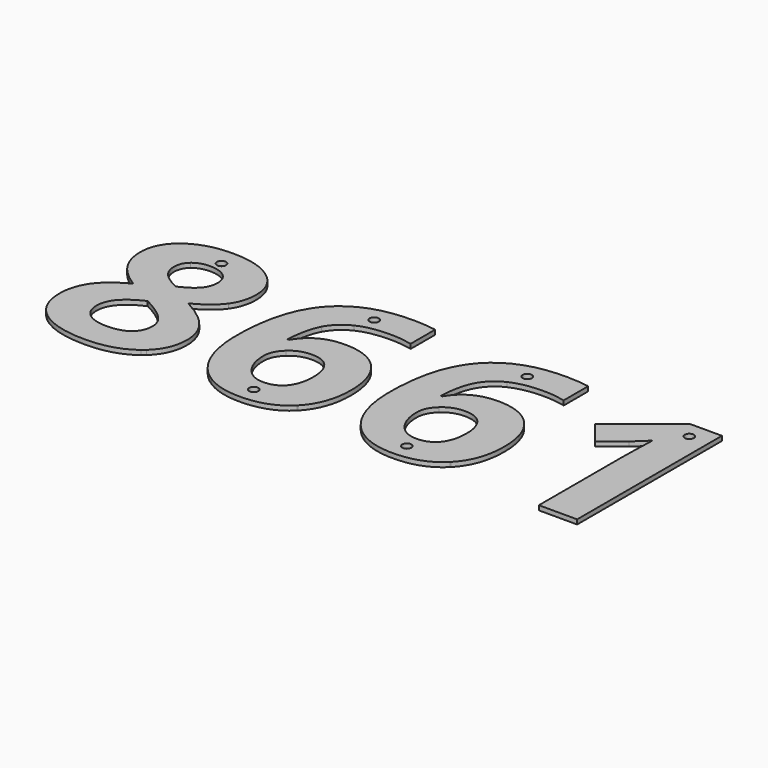
from build123d import *

# Parameters (mm, degrees)
F1_DEPTH = 2.54
F0_W     = 21.2989583333
F0_H     = 7.62


with BuildPart() as f1:
    # F0 (on Top) → F1 (new body)
    with BuildSketch(Plane.XY):
        with BuildLine():
            Line((-113.2377999403, 87.7247160562), (-140.2658723302, 87.7247160562))
            add(Edge.make_bspline(
                [(-145.0274874403, 74.1383618895), (-145.0274874403, 82.0339818801), (-140.2658723302, 87.7247160562)],
                knots=[0, 0, 0, 0.7293290432, 0.7293290432, 0.7293290432], degree=2))
            add(Edge.make_bspline(
                [(-141.2461506348, 60.5674417506), (-145.0274874403, 66.7741257784), (-145.0274874403, 74.1383618895)],
                knots=[0, 0, 0, 1, 1, 1], degree=2))
            add(Edge.make_bspline(
                [(-128.8438068848, 48.9367993895), (-137.4648138292, 54.3607577228), (-141.2461506348, 60.5674417506)],
                knots=[0, 0, 0, 1, 1, 1], degree=2))
            add(Edge.make_bspline(
                [(-143.5502304959, 37.140792445), (-138.9641193848, 43.8215216117), (-128.8438068848, 48.9367993895)],
                knots=[0, 0, 0, 1, 1, 1], degree=2))
            add(Edge.make_bspline(
                [(-148.136341607, 21.8390563339), (-148.136341607, 30.4600632784), (-143.5502304959, 37.140792445)],
                knots=[0, 0, 0, 1, 1, 1], degree=2))
            add(Edge.make_bspline(
                [(-141.044147734, 3.9047160562), (-148.136341607, 10.6762887928), (-148.136341607, 21.8390563339)],
                knots=[0.1330824475, 0.1330824475, 0.1330824475, 1, 1, 1], degree=2))
            Line((-141.044147734, 3.9047160562), (-85.4263555801, 3.9047160562))
            add(Edge.make_bspline(
                [(-77.4484943848, 22.3902716117), (-77.4484943848, 11.1598201309), (-85.4263555801, 3.9047160562)],
                knots=[0, 0, 0, 0.9063160329, 0.9063160329, 0.9063160329], degree=2))
            add(Edge.make_bspline(
                [(-82.3763589681, 36.843136195), (-77.4484943848, 30.2616257784), (-77.4484943848, 22.3902716117)],
                knots=[0, 0, 0, 1, 1, 1], degree=2))
            add(Edge.make_bspline(
                [(-98.5931124403, 49.4880146673), (-87.3042235514, 43.4246466117), (-82.3763589681, 36.843136195)],
                knots=[0, 0, 0, 1, 1, 1], degree=2))
            add(Edge.make_bspline(
                [(-84.8127304959, 60.258761195), (-89.0901610514, 54.2284660562), (-98.5931124403, 49.4880146673)],
                knots=[0, 0, 0, 1, 1, 1], degree=2))
            add(Edge.make_bspline(
                [(-80.5352999403, 74.0060702228), (-80.5352999403, 66.2890563339), (-84.8127304959, 60.258761195)],
                knots=[0, 0, 0, 1, 1, 1], degree=2))
            add(Edge.make_bspline(
                [(-85.1446380863, 87.7247160562), (-80.5352999403, 82.0564736691), (-80.5352999403, 74.0060702228)],
                knots=[0.2784176675, 0.2784176675, 0.2784176675, 1, 1, 1], degree=2))
            Line((-85.1446380863, 87.7247160562), (-108.1577999403, 87.7247160562))
            ThreePointArc((-108.1577999403, 87.7247160562), (-110.6977999403, 85.1847160562), (-113.2377999403, 87.7247160562))
        make_face()
        with BuildLine():
            add(Edge.make_bspline(
                [(-128.4248832737, 23.0958271673), (-128.4248832737, 17.1647507784), (-124.2907686903, 13.8574591117)],
                knots=[0, 0, 0, 1, 1, 1], degree=2))
            add(Edge.make_bspline(
                [(-113.7625568848, 40.1835007784), (-128.4248832737, 33.4145771673), (-128.4248832737, 23.0958271673)],
                knots=[0, 0, 0, 1, 1, 1], degree=2))
            add(Edge.make_bspline(
                [(-101.1176784125, 31.5955667506), (-105.0092582737, 35.6194382784), (-113.7625568848, 40.1835007784)],
                knots=[0, 0, 0, 1, 1, 1], degree=2))
            add(Edge.make_bspline(
                [(-97.2260985514, 22.9414868895), (-97.2260985514, 27.5716952228), (-101.1176784125, 31.5955667506)],
                knots=[0, 0, 0, 1, 1, 1], degree=2))
            add(Edge.make_bspline(
                [(-101.1507513292, 13.9566778617), (-97.2260985514, 17.3631882784), (-97.2260985514, 22.9414868895)],
                knots=[0, 0, 0, 1, 1, 1], degree=2))
            add(Edge.make_bspline(
                [(-112.9908554959, 10.550167445), (-105.075404107, 10.550167445), (-101.1507513292, 13.9566778617)],
                knots=[0, 0, 0, 1, 1, 1], degree=2))
            add(Edge.make_bspline(
                [(-124.2907686903, 13.8574591117), (-120.156654107, 10.550167445), (-112.9908554959, 10.550167445)],
                knots=[0, 0, 0, 1, 1, 1], degree=2))
        make_face(mode=Mode.SUBTRACT)
        with BuildLine():
            add(Edge.make_bspline(
                [(-112.8585638292, 82.7593688339), (-118.3045707737, 82.7593688339), (-121.644935357, 79.9702195284)],
                knots=[0, 0, 0, 1, 1, 1], degree=2))
            add(Edge.make_bspline(
                [(-104.0391193848, 80.003292445), (-107.4787027181, 82.7593688339), (-112.8585638292, 82.7593688339)],
                knots=[0, 0, 0, 1, 1, 1], degree=2))
            add(Edge.make_bspline(
                [(-100.5995360514, 72.4847160562), (-100.5995360514, 77.2472160562), (-104.0391193848, 80.003292445)],
                knots=[0, 0, 0, 1, 1, 1], degree=2))
            add(Edge.make_bspline(
                [(-103.2784423014, 64.8338480006), (-100.5995360514, 68.1411396673), (-100.5995360514, 72.4847160562)],
                knots=[0, 0, 0, 1, 1, 1], degree=2))
            add(Edge.make_bspline(
                [(-112.7262721625, 58.373604945), (-105.9573485514, 61.5265563339), (-103.2784423014, 64.8338480006)],
                knots=[0, 0, 0, 1, 1, 1], degree=2))
            add(Edge.make_bspline(
                [(-122.3284423014, 65.0874070284), (-119.6715846625, 61.8131882784), (-112.7262721625, 58.373604945)],
                knots=[0, 0, 0, 1, 1, 1], degree=2))
            add(Edge.make_bspline(
                [(-124.9852999403, 72.4847160562), (-124.9852999403, 68.3616257784), (-122.3284423014, 65.0874070284)],
                knots=[0, 0, 0, 1, 1, 1], degree=2))
            add(Edge.make_bspline(
                [(-121.644935357, 79.9702195284), (-124.9852999403, 77.1810702228), (-124.9852999403, 72.4847160562)],
                knots=[0, 0, 0, 1, 1, 1], degree=2))
        make_face(mode=Mode.SUBTRACT)
        with BuildLine():
            add(Edge.make_bspline(
                [(-140.2658723302, 87.7247160562), (-138.4987263076, 89.836679756), (-136.0757513292, 91.6449591117)],
                knots=[0.7293290432, 0.7293290432, 0.7293290432, 1, 1, 1], degree=2))
            Line((-140.2658723302, 87.7247160562), (-113.2377999403, 87.7247160562))
            ThreePointArc((-113.2377999403, 87.7247160562), (-110.6977999403, 90.2647160562), (-108.1577999403, 87.7247160562))
            Line((-108.1577999403, 87.7247160562), (-85.1446380863, 87.7247160562))
            add(Edge.make_bspline(
                [(-89.3878173014, 91.7441778617), (-86.9231200662, 89.9117690828), (-85.1446380863, 87.7247160562)],
                knots=[0, 0, 0, 0.2784176675, 0.2784176675, 0.2784176675], degree=2))
            add(Edge.make_bspline(
                [(-112.7262721625, 98.3256882784), (-98.2403346625, 98.3256882784), (-89.3878173014, 91.7441778617)],
                knots=[0, 0, 0, 1, 1, 1], degree=2))
            add(Edge.make_bspline(
                [(-136.0757513292, 91.6449591117), (-127.1240152181, 98.3256882784), (-112.7262721625, 98.3256882784)],
                knots=[0, 0, 0, 1, 1, 1], degree=2))
        make_face()
        with BuildLine():
            Line((-85.4263555801, 3.9047160562), (-141.044147734, 3.9047160562))
            add(Edge.make_bspline(
                [(-138.6995360514, 1.9291605006), (-139.9554092309, 2.865196819), (-141.044147734, 3.9047160562)],
                knots=[0, 0, 0, 0.1330824475, 0.1330824475, 0.1330824475], degree=2))
            add(Edge.make_bspline(
                [(-112.7262721625, -5.1043464438), (-129.2627304959, -5.1043464438), (-138.6995360514, 1.9291605006)],
                knots=[0, 0, 0, 1, 1, 1], degree=2))
            add(Edge.make_bspline(
                [(-87.1609075792, 2.4473028617), (-96.8733207737, -5.1043464438), (-112.7262721625, -5.1043464438)],
                knots=[0, 0, 0, 1, 1, 1], degree=2))
            add(Edge.make_bspline(
                [(-85.4263555801, 3.9047160562), (-86.2510101807, 3.1547713271), (-87.1609075792, 2.4473028617)],
                knots=[0.9063160329, 0.9063160329, 0.9063160329, 1, 1, 1], degree=2))
        make_face()
    extrude(amount=F1_DEPTH)


with BuildPart() as f1b:
    # F0 (on Top) → F1, piece 2 (new body)
    with BuildSketch(Plane.XY):
        with BuildLine():
            Line((-28.2293798014, 87.7247160562), (-46.5161582434, 87.7247160562))
            add(Edge.make_bspline(
                [(-50.6925048014, 83.5861917506), (-48.7523897485, 85.8273883026), (-46.5161582434, 87.7247160562)],
                knots=[0, 0, 0, 0.1534308975, 0.1534308975, 0.1534308975], degree=2))
            add(Edge.make_bspline(
                [(-63.3373832737, 39.0810702228), (-63.3373832737, 68.9789868895), (-50.6925048014, 83.5861917506)],
                knots=[0, 0, 0, 1, 1, 1], degree=2))
            add(Edge.make_bspline(
                [(-58.8284423014, 15.1583271673), (-63.3373832737, 25.0802021673), (-63.3373832737, 39.0810702228)],
                knots=[0, 0, 0, 1, 1, 1], degree=2))
            add(Edge.make_bspline(
                [(-50.9831645376, 3.9047160562), (-55.7768536804, 8.4433399815), (-58.8284423014, 15.1583271673)],
                knots=[0.3232138899, 0.3232138899, 0.3232138899, 1, 1, 1], degree=2))
            Line((-50.9831645376, 3.9047160562), (-28.2293798014, 3.9047160562))
            ThreePointArc((-28.2293798014, 3.9047160562), (-25.6893798014, 6.4447160562), (-23.1493798014, 3.9047160562))
            Line((-23.1493798014, 3.9047160562), (-1.7252301548, 3.9047160562))
            add(Edge.make_bspline(
                [(-1.3256645237, 4.3104105006), (-1.5237812714, 4.105329649), (-1.7252301548, 3.9047160562)],
                knots=[0, 0, 0, 0.0217829151, 0.0217829151, 0.0217829151], degree=2))
            add(Edge.make_bspline(
                [(7.7693875597, 29.8427021673), (7.7693875597, 13.725167445), (-1.3256645237, 4.3104105006)],
                knots=[0, 0, 0, 1, 1, 1], degree=2))
            add(Edge.make_bspline(
                [(0.1185195041, 53.2693514728), (7.7693875597, 44.7916605006), (7.7693875597, 29.8427021673)],
                knots=[0, 0, 0, 1, 1, 1], degree=2))
            add(Edge.make_bspline(
                [(-21.0260985514, 61.747042445), (-7.5323485514, 61.747042445), (0.1185195041, 53.2693514728)],
                knots=[0, 0, 0, 1, 1, 1], degree=2))
            add(Edge.make_bspline(
                [(-42.8762721625, 50.039229945), (-36.0412027181, 61.747042445), (-21.0260985514, 61.747042445)],
                knots=[0, 0, 0, 1, 1, 1], degree=2))
            Line((-42.8762721625, 50.039229945), (-43.758216607, 50.039229945))
            add(Edge.make_bspline(
                [(-39.7012721625, 68.4277716117), (-43.1408554959, 61.945479945), (-43.758216607, 50.039229945)],
                knots=[0, 0, 0, 1, 1, 1], degree=2))
            add(Edge.make_bspline(
                [(-29.3384249403, 78.217354945), (-36.2616888292, 74.9100632784), (-39.7012721625, 68.4277716117)],
                knots=[0, 0, 0, 1, 1, 1], degree=2))
            add(Edge.make_bspline(
                [(-11.4570013292, 81.5246466117), (-22.4151610514, 81.5246466117), (-29.3384249403, 78.217354945)],
                knots=[0, 0, 0, 1, 1, 1], degree=2))
            add(Edge.make_bspline(
                [(0.6697347819, 80.1355841117), (-5.459779107, 81.5246466117), (-11.4570013292, 81.5246466117)],
                knots=[0, 0, 0, 1, 1, 1], degree=2))
            Line((0.6697347819, 80.1355841117), (0.6697347819, 87.7247160562))
            Line((0.6697347819, 87.7247160562), (-23.1493798014, 87.7247160562))
            ThreePointArc((-23.1493798014, 87.7247160562), (-25.6893798014, 85.1847160562), (-28.2293798014, 87.7247160562))
        make_face()
        with BuildLine():
            add(Edge.make_bspline(
                [(-26.9571749403, 11.9171813339), (-20.144154107, 11.9171813339), (-16.4840846625, 16.503292445)],
                knots=[0, 0, 0, 1, 1, 1], degree=2))
            add(Edge.make_bspline(
                [(-37.8822617459, 17.5726500839), (-33.5717582737, 11.9171813339), (-26.9571749403, 11.9171813339)],
                knots=[0, 0, 0, 1, 1, 1], degree=2))
            add(Edge.make_bspline(
                [(-42.1927652181, 31.4302021673), (-42.1927652181, 23.2281188339), (-37.8822617459, 17.5726500839)],
                knots=[0, 0, 0, 1, 1, 1], degree=2))
            add(Edge.make_bspline(
                [(-37.606654107, 41.208761195), (-42.1927652181, 37.0085007784), (-42.1927652181, 31.4302021673)],
                knots=[0, 0, 0, 1, 1, 1], degree=2))
            add(Edge.make_bspline(
                [(-26.5382513292, 45.4090216117), (-33.0205429959, 45.4090216117), (-37.606654107, 41.208761195)],
                knots=[0, 0, 0, 1, 1, 1], degree=2))
            add(Edge.make_bspline(
                [(-16.2415499403, 41.1756882784), (-19.6590846625, 45.4090216117), (-26.5382513292, 45.4090216117)],
                knots=[0, 0, 0, 1, 1, 1], degree=2))
            add(Edge.make_bspline(
                [(-12.8240152181, 29.5560702228), (-12.8240152181, 36.942354945), (-16.2415499403, 41.1756882784)],
                knots=[0, 0, 0, 1, 1, 1], degree=2))
            add(Edge.make_bspline(
                [(-16.4840846625, 16.503292445), (-12.8240152181, 21.0894035562), (-12.8240152181, 29.5560702228)],
                knots=[0, 0, 0, 1, 1, 1], degree=2))
        make_face(mode=Mode.SUBTRACT)
        with BuildLine():
            add(Edge.make_bspline(
                [(-46.5161582434, 87.7247160562), (-34.1775450379, 98.1933966117), (-12.8240152181, 98.1933966117)],
                knots=[0.1534308975, 0.1534308975, 0.1534308975, 1, 1, 1], degree=2))
            Line((-46.5161582434, 87.7247160562), (-28.2293798014, 87.7247160562))
            ThreePointArc((-28.2293798014, 87.7247160562), (-25.6893798014, 90.2647160562), (-23.1493798014, 87.7247160562))
            Line((-23.1493798014, 87.7247160562), (0.6697347819, 87.7247160562))
            Line((0.6697347819, 87.7247160562), (0.6697347819, 97.1571118895))
            add(Edge.make_bspline(
                [(-12.8240152181, 98.1933966117), (-4.2250568848, 98.1933966117), (0.6697347819, 97.1571118895)],
                knots=[0, 0, 0, 1, 1, 1], degree=2))
        make_face()
        with BuildLine():
            Line((-28.2293798014, 3.9047160562), (-50.9831645376, 3.9047160562))
            add(Edge.make_bspline(
                [(-46.0071749403, 0.0660528617), (-48.6938342869, 1.7371977338), (-50.9831645376, 3.9047160562)],
                knots=[0, 0, 0, 0.3232138899, 0.3232138899, 0.3232138899], degree=2))
            add(Edge.make_bspline(
                [(-26.5382513292, -5.1043464438), (-37.6948485514, -5.1043464438), (-46.0071749403, 0.0660528617)],
                knots=[0, 0, 0, 1, 1, 1], degree=2))
            add(Edge.make_bspline(
                [(-1.7252301548, 3.9047160562), (-10.7718034982, -5.1043464438), (-26.5382513292, -5.1043464438)],
                knots=[0.0217829151, 0.0217829151, 0.0217829151, 1, 1, 1], degree=2))
            Line((-1.7252301548, 3.9047160562), (-23.1493798014, 3.9047160562))
            ThreePointArc((-23.1493798014, 3.9047160562), (-25.6893798014, 1.3647160562), (-28.2293798014, 3.9047160562))
        make_face()
    extrude(amount=F1_DEPTH)


with BuildPart() as f1c:
    # F0 (on Top) → F1, piece 3 (new body)
    with BuildSketch(Plane.XY):
        with BuildLine():
            Line((56.988502143, 87.7247160562), (38.701723701, 87.7247160562))
            add(Edge.make_bspline(
                [(34.525377143, 83.5861917506), (36.465492196, 85.8273883026), (38.701723701, 87.7247160562)],
                knots=[0, 0, 0, 0.1534308975, 0.1534308975, 0.1534308975], degree=2))
            add(Edge.make_bspline(
                [(21.8804986708, 39.0810702228), (21.8804986708, 68.9789868895), (34.525377143, 83.5861917506)],
                knots=[0, 0, 0, 1, 1, 1], degree=2))
            add(Edge.make_bspline(
                [(26.389439643, 15.1583271673), (21.8804986708, 25.0802021673), (21.8804986708, 39.0810702228)],
                knots=[0, 0, 0, 1, 1, 1], degree=2))
            add(Edge.make_bspline(
                [(34.2347174069, 3.9047160562), (29.4410282641, 8.4433399815), (26.389439643, 15.1583271673)],
                knots=[0.3232138899, 0.3232138899, 0.3232138899, 1, 1, 1], degree=2))
            Line((34.2347174069, 3.9047160562), (56.988502143, 3.9047160562))
            ThreePointArc((56.988502143, 3.9047160562), (59.528502143, 6.4447160562), (62.068502143, 3.9047160562))
            Line((62.068502143, 3.9047160562), (83.4926517896, 3.9047160562))
            add(Edge.make_bspline(
                [(83.8922174208, 4.3104105006), (83.694100673, 4.105329649), (83.4926517896, 3.9047160562)],
                knots=[0, 0, 0, 0.0217829151, 0.0217829151, 0.0217829151], degree=2))
            add(Edge.make_bspline(
                [(92.9872695041, 29.8427021673), (92.9872695041, 13.725167445), (83.8922174208, 4.3104105006)],
                knots=[0, 0, 0, 1, 1, 1], degree=2))
            add(Edge.make_bspline(
                [(85.3364014486, 53.2693514728), (92.9872695041, 44.7916605006), (92.9872695041, 29.8427021673)],
                knots=[0, 0, 0, 1, 1, 1], degree=2))
            add(Edge.make_bspline(
                [(64.191783393, 61.747042445), (77.685533393, 61.747042445), (85.3364014486, 53.2693514728)],
                knots=[0, 0, 0, 1, 1, 1], degree=2))
            add(Edge.make_bspline(
                [(42.3416097819, 50.039229945), (49.1766792263, 61.747042445), (64.191783393, 61.747042445)],
                knots=[0, 0, 0, 1, 1, 1], degree=2))
            Line((42.3416097819, 50.039229945), (41.4596653375, 50.039229945))
            add(Edge.make_bspline(
                [(45.5166097819, 68.4277716117), (42.0770264486, 61.945479945), (41.4596653375, 50.039229945)],
                knots=[0, 0, 0, 1, 1, 1], degree=2))
            add(Edge.make_bspline(
                [(55.8794570041, 78.217354945), (48.9561931152, 74.9100632784), (45.5166097819, 68.4277716117)],
                knots=[0, 0, 0, 1, 1, 1], degree=2))
            add(Edge.make_bspline(
                [(73.7608806152, 81.5246466117), (62.802720893, 81.5246466117), (55.8794570041, 78.217354945)],
                knots=[0, 0, 0, 1, 1, 1], degree=2))
            add(Edge.make_bspline(
                [(85.8876167263, 80.1355841117), (79.7581028375, 81.5246466117), (73.7608806152, 81.5246466117)],
                knots=[0, 0, 0, 1, 1, 1], degree=2))
            Line((85.8876167263, 80.1355841117), (85.8876167263, 87.7247160562))
            Line((85.8876167263, 87.7247160562), (62.068502143, 87.7247160562))
            ThreePointArc((62.068502143, 87.7247160562), (59.528502143, 85.1847160562), (56.988502143, 87.7247160562))
        make_face()
        with BuildLine():
            add(Edge.make_bspline(
                [(58.2607070041, 11.9171813339), (65.0737278375, 11.9171813339), (68.7337972819, 16.503292445)],
                knots=[0, 0, 0, 1, 1, 1], degree=2))
            add(Edge.make_bspline(
                [(47.3356201986, 17.5726500839), (51.6461236708, 11.9171813339), (58.2607070041, 11.9171813339)],
                knots=[0, 0, 0, 1, 1, 1], degree=2))
            add(Edge.make_bspline(
                [(43.0251167263, 31.4302021673), (43.0251167263, 23.2281188339), (47.3356201986, 17.5726500839)],
                knots=[0, 0, 0, 1, 1, 1], degree=2))
            add(Edge.make_bspline(
                [(47.6112278375, 41.208761195), (43.0251167263, 37.0085007784), (43.0251167263, 31.4302021673)],
                knots=[0, 0, 0, 1, 1, 1], degree=2))
            add(Edge.make_bspline(
                [(58.6796306152, 45.4090216117), (52.1973389486, 45.4090216117), (47.6112278375, 41.208761195)],
                knots=[0, 0, 0, 1, 1, 1], degree=2))
            add(Edge.make_bspline(
                [(68.9763320041, 41.1756882784), (65.5587972819, 45.4090216117), (58.6796306152, 45.4090216117)],
                knots=[0, 0, 0, 1, 1, 1], degree=2))
            add(Edge.make_bspline(
                [(72.3938667263, 29.5560702228), (72.3938667263, 36.942354945), (68.9763320041, 41.1756882784)],
                knots=[0, 0, 0, 1, 1, 1], degree=2))
            add(Edge.make_bspline(
                [(68.7337972819, 16.503292445), (72.3938667263, 21.0894035562), (72.3938667263, 29.5560702228)],
                knots=[0, 0, 0, 1, 1, 1], degree=2))
        make_face(mode=Mode.SUBTRACT)
        with BuildLine():
            add(Edge.make_bspline(
                [(38.701723701, 87.7247160562), (51.0403369066, 98.1933966117), (72.3938667263, 98.1933966117)],
                knots=[0.1534308975, 0.1534308975, 0.1534308975, 1, 1, 1], degree=2))
            Line((38.701723701, 87.7247160562), (56.988502143, 87.7247160562))
            ThreePointArc((56.988502143, 87.7247160562), (59.528502143, 90.2647160562), (62.068502143, 87.7247160562))
            Line((62.068502143, 87.7247160562), (85.8876167263, 87.7247160562))
            Line((85.8876167263, 87.7247160562), (85.8876167263, 97.1571118895))
            add(Edge.make_bspline(
                [(72.3938667263, 98.1933966117), (80.9928250597, 98.1933966117), (85.8876167263, 97.1571118895)],
                knots=[0, 0, 0, 1, 1, 1], degree=2))
        make_face()
        with BuildLine():
            Line((56.988502143, 3.9047160562), (34.2347174069, 3.9047160562))
            add(Edge.make_bspline(
                [(39.2107070041, 0.0660528617), (36.5240476575, 1.7371977338), (34.2347174069, 3.9047160562)],
                knots=[0, 0, 0, 0.3232138899, 0.3232138899, 0.3232138899], degree=2))
            add(Edge.make_bspline(
                [(58.6796306152, -5.1043464438), (47.523033393, -5.1043464438), (39.2107070041, 0.0660528617)],
                knots=[0, 0, 0, 1, 1, 1], degree=2))
            add(Edge.make_bspline(
                [(83.4926517896, 3.9047160562), (74.4460784463, -5.1043464438), (58.6796306152, -5.1043464438)],
                knots=[0.0217829151, 0.0217829151, 0.0217829151, 1, 1, 1], degree=2))
            Line((83.4926517896, 3.9047160562), (62.068502143, 3.9047160562))
            ThreePointArc((62.068502143, 3.9047160562), (59.528502143, 1.3647160562), (56.988502143, 3.9047160562))
        make_face()
    extrude(amount=F1_DEPTH)


with BuildPart() as f1d:
    # F0 (on Top) → F1, piece 4 (new body)
    with BuildSketch(Plane.XY):
        with BuildLine():
            Line((147.1877319431, 87.7247160562), (131.2466967652, 87.7247160562))
            Line((131.2466967652, 87.7247160562), (110.4718181152, 71.1838480006))
            Line((110.4718181152, 71.1838480006), (120.746470893, 58.373604945))
            Line((120.746470893, 58.373604945), (132.3219917263, 67.6781188339))
            add(Edge.make_bspline(
                [(139.6862278375, 74.6234313339), (134.3945611708, 69.3317646673), (132.3219917263, 67.6781188339)],
                knots=[0, 0, 0, 1, 1, 1], degree=2))
            Line((139.6862278375, 74.6234313339), (139.3554986708, 64.1503410562))
            Line((139.3554986708, 64.1503410562), (139.1350125597, 54.5812438339))
            Line((139.1350125597, 54.5812438339), (139.1350125597, 3.9047160562))
            Line((139.1350125597, 3.9047160562), (160.433970893, 3.9047160562))
            Line((160.433970893, 3.9047160562), (160.433970893, 87.7247160562))
            Line((160.433970893, 87.7247160562), (152.2677319431, 87.7247160562))
            ThreePointArc((152.2677319431, 87.7247160562), (149.7277319431, 85.1847160562), (147.1877319431, 87.7247160562))
        make_face()
        with BuildLine():
            Line((142.9273736708, 97.0248202228), (131.2466967652, 87.7247160562))
            Line((131.2466967652, 87.7247160562), (147.1877319431, 87.7247160562))
            ThreePointArc((147.1877319431, 87.7247160562), (149.7277319431, 90.2647160562), (152.2677319431, 87.7247160562))
            Line((152.2677319431, 87.7247160562), (160.433970893, 87.7247160562))
            Line((160.433970893, 87.7247160562), (160.433970893, 97.0248202228))
            Line((160.433970893, 97.0248202228), (142.9273736708, 97.0248202228))
        make_face()
        with Locations((149.7844917263, 0.0947160562)):
            Rectangle(F0_W, F0_H)
    extrude(amount=F1_DEPTH)


solid = Compound([f1.part, f1b.part, f1c.part, f1d.part])
